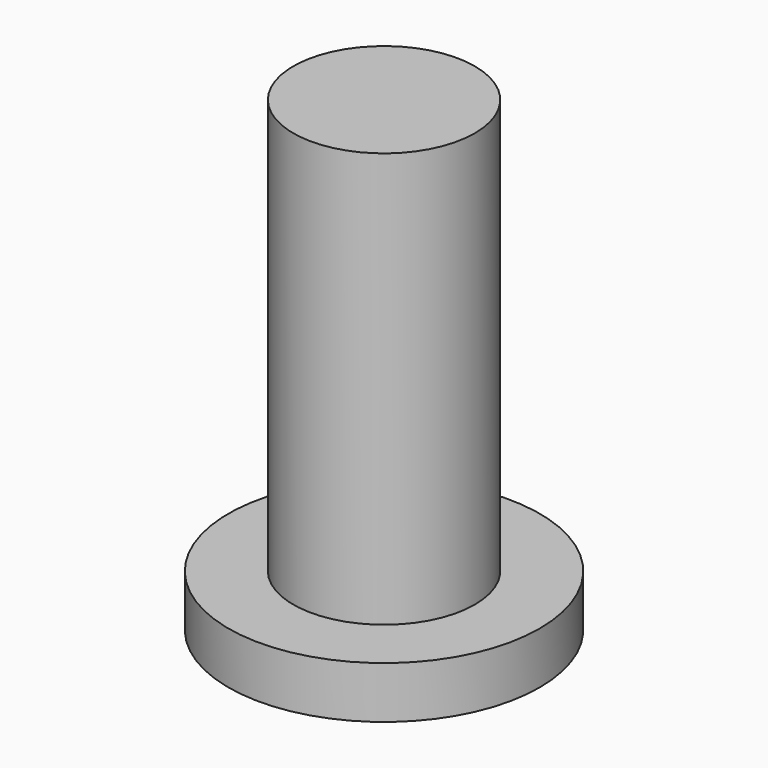
from build123d import *

# Parameters (mm, degrees)
SKETCH_R     = 3
PAD_DEPTH    = 1
SKETCH001_R  = 1.75
PAD001_DEPTH = 8


with BuildPart() as part:
    # Sketch → Pad (new body)
    with BuildSketch(Plane.XY):
        Circle(SKETCH_R)
    extrude(amount=PAD_DEPTH)

    # Sketch001 (on Face3 of Pad) → Pad001 (join)
    with BuildSketch(Plane.XY.offset(1)):
        Circle(SKETCH001_R)
    extrude(amount=PAD001_DEPTH)


solid = part.part
